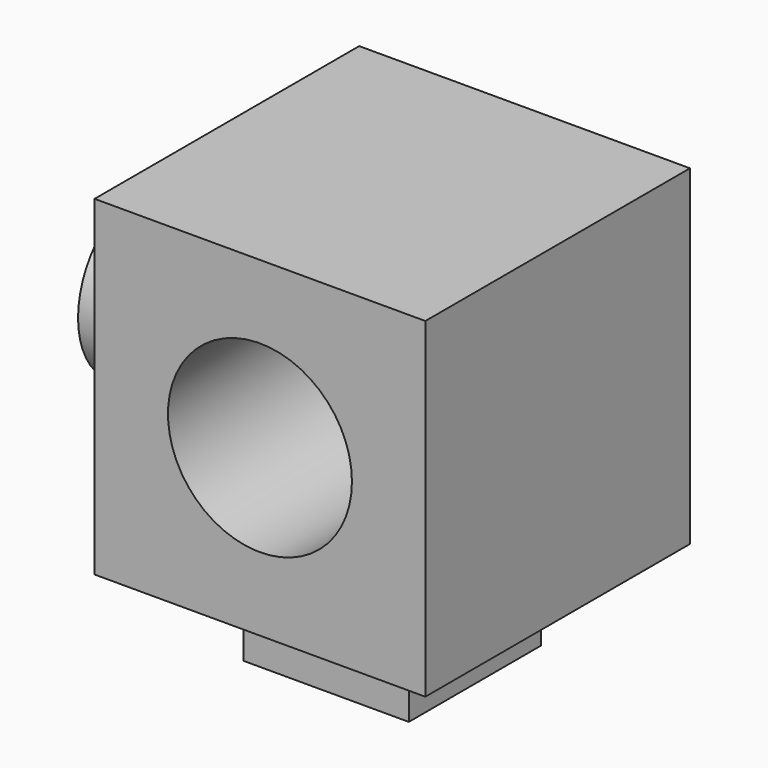
from build123d import *

# Parameters (mm, degrees)
F0_W     = 50.8
F0_H     = 50.8
F1_DEPTH = 50.8
F2_R     = 14.126259
F3_DEPTH = 50.8
F4_W     = 25.4
F4_H     = 25.4
F5_DEPTH = 12.7
F6_R     = 12.7
F7_DEPTH = 12.7


with BuildPart() as f1:
    # F0 (on Front) → F1 (new body)
    with BuildSketch(Plane.XZ):
        with Locations((-25.4, 25.4)):
            Rectangle(F0_W, F0_H)
    extrude(amount=F1_DEPTH)

    # F2 (on face) → F3 (cut)
    with BuildSketch(Plane.XZ.offset(50.8)):
        with Locations((-25.4, 25.4)):
            Circle(F2_R)
    extrude(amount=-F3_DEPTH, mode=Mode.SUBTRACT)

    # F4 (on face) → F5 (join)
    with BuildSketch(Plane(origin=(0, 0, 0), x_dir=(1, 0, 0), z_dir=(0, 0, -1))):
        with Locations((-25.4, 25.4)):
            Rectangle(F4_W, F4_H)
    extrude(amount=F5_DEPTH)

    # F6 (on face) → F7 (join)
    with BuildSketch(Plane(origin=(-50.8, 0, 0), x_dir=(0, -1, 0), z_dir=(-1, 0, 0))):
        with Locations((25.4, 25.4)):
            Circle(F6_R)
    extrude(amount=F7_DEPTH)


solid = f1.part
